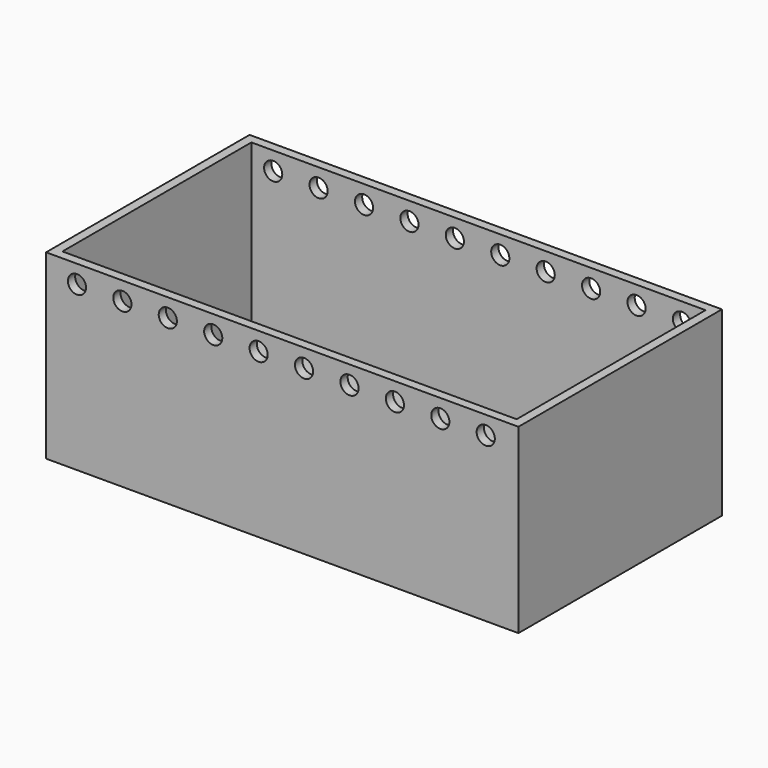
from build123d import *

# Parameters (mm, degrees)
F0_W     = 130
F0_H     = 70
F1_DEPTH = 50
F2_T     = -2.5
F3_R     = 2.5
F4_DEPTH = 70.001


with BuildPart() as f1:
    # F0 (on Top) → F1 (new body)
    with BuildSketch(Plane.XY):
        Rectangle(F0_W, F0_H)
    extrude(amount=F1_DEPTH)

    # F2
    f2_openings = [f1.faces().sort_by_distance(p)[0] for p in [
        (0, 0, 50),
    ]]
    offset(amount=F2_T, openings=f2_openings)

    # F3 (on face) → F4 (cut, through all)
    with BuildSketch(Plane.XZ.offset(35)):
        with Locations((-56.5, 45)):
            Circle(F3_R)
        with Locations((-44, 45)):
            Circle(F3_R)
        with Locations((-31.5, 45)):
            Circle(F3_R)
        with Locations((-19, 45)):
            Circle(F3_R)
        with Locations((-6.5, 45)):
            Circle(F3_R)
        with Locations((6, 45)):
            Circle(F3_R)
        with Locations((18.5, 45)):
            Circle(F3_R)
        with Locations((31, 45)):
            Circle(F3_R)
        with Locations((43.5, 45)):
            Circle(F3_R)
        with Locations((56, 45)):
            Circle(F3_R)
    extrude(amount=-F4_DEPTH, mode=Mode.SUBTRACT)


solid = f1.part
